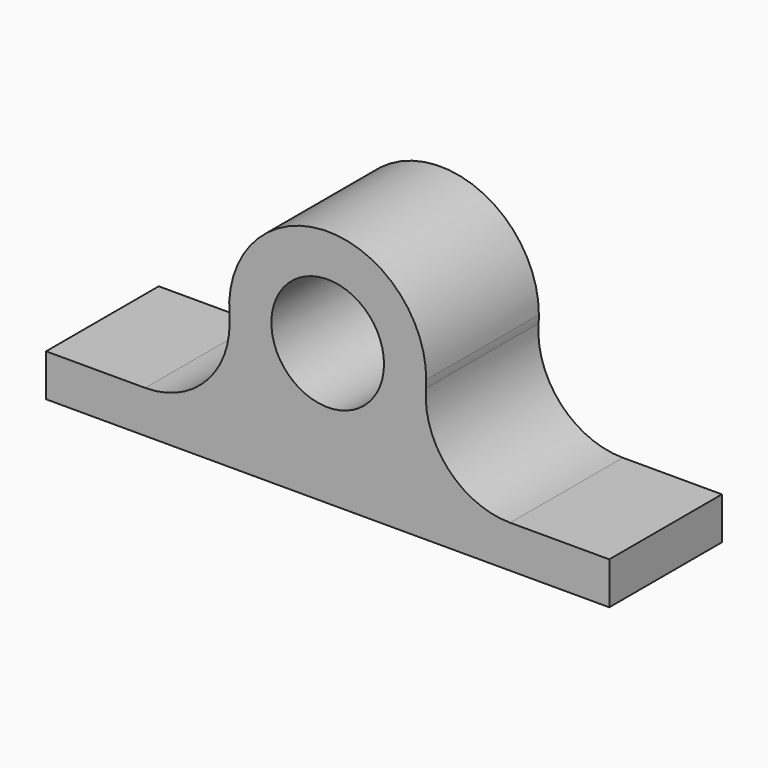
from build123d import *

# Parameters (mm, degrees)
F0_R     = 12.7
F1_DEPTH = 31.75


with BuildPart() as f1:
    # F0 (on Front) → F1 (new body)
    with BuildSketch(Plane.XZ):
        Polygon((63.5, -4.7625), (63.5, 4.7625), (41.1527034349, 4.7625), (-3.4e-08, 4.7625), (-41.1527034349, 4.7625), (-63.5, 4.7625), (-63.5, -4.7625), align=None)
        with BuildLine():
            Line((-3.4e-08, 4.7625), (41.1527034349, 4.7625))
            ThreePointArc((41.1527034349, 4.7625), (27.1738249385, 10.8705737143), (22.1591480484, 25.2778851985))
            ThreePointArc((22.1591480484, 25.2778851985), (15.0989144524, 10.6788088398), (-3.4e-08, 4.7625))
        make_face()
        with BuildLine():
            Line((-41.1527034349, 4.7625), (-3.4e-08, 4.7625))
            ThreePointArc((-3.4e-08, 4.7625), (-15.0989145226, 10.6788089048), (-22.1591480579, 25.2778853214))
            ThreePointArc((-22.1591480579, 25.2778853214), (-22.1168198209, 24.5457360015), (-22.1027034349, 23.8125))
            ThreePointArc((-22.1027034349, 23.8125), (-27.6823192533, 10.3421158184), (-41.1527034349, 4.7625))
        make_face()
        with BuildLine():
            ThreePointArc((-22.1591480579, 25.2778853214), (-15.0989145226, 10.6788089048), (-3.4e-08, 4.7625))
            ThreePointArc((-3.4e-08, 4.7625), (15.0989144524, 10.6788088398), (22.1591480484, 25.2778851985))
            ThreePointArc((22.1591480484, 25.2778851985), (22.2085309102, 26.1320587032), (22.225, 26.9875))
            ThreePointArc((22.225, 26.9875), (-0.8554412352, 49.1960309125), (-22.1591480579, 25.2778853214))
        make_face()
        with Locations((0, 26.9875)):
            Circle(F0_R, mode=Mode.SUBTRACT)
    extrude(amount=F1_DEPTH)


solid = f1.part
